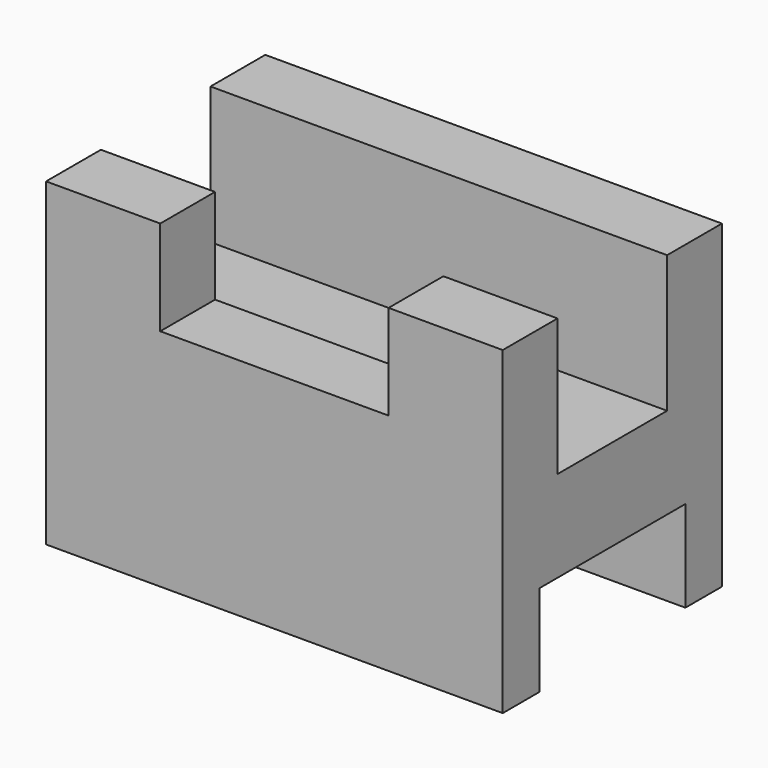
from build123d import *

# Parameters (mm, degrees)
F0_W     = 63.5
F0_H     = 44.45
F1_DEPTH = 38.1
F2_W     = 31.75
F2_H     = 13.187168
F3_DEPTH = 9.525
F4_W     = 63.5
F4_H     = 19.05
F5_DEPTH = 19.05
F6_W     = 25.4
F6_H     = 12.7
F7_DEPTH = 63.501


with BuildPart() as f1:
    # F0 (on Front) → F1 (new body)
    with BuildSketch(Plane.XZ):
        Rectangle(F0_W, F0_H)
    extrude(amount=F1_DEPTH)

    # F2 (on face) → F3 (cut)
    with BuildSketch(Plane.XZ.offset(38.1)):
        with Locations((0, 15.631416)):
            Rectangle(F2_W, F2_H)
    extrude(amount=-F3_DEPTH, mode=Mode.SUBTRACT)

    # F4 (on face) → F5 (cut)
    with BuildSketch(Plane.XY.offset(22.225)):
        with Locations((0, -19.05)):
            Rectangle(F4_W, F4_H)
    extrude(amount=-F5_DEPTH, mode=Mode.SUBTRACT)

    # F6 (on face) → F7 (cut, through all)
    with BuildSketch(Plane.YZ.offset(31.75)):
        with Locations((-19.05, -15.875)):
            Rectangle(F6_W, F6_H)
    extrude(amount=-F7_DEPTH, mode=Mode.SUBTRACT)


solid = f1.part
